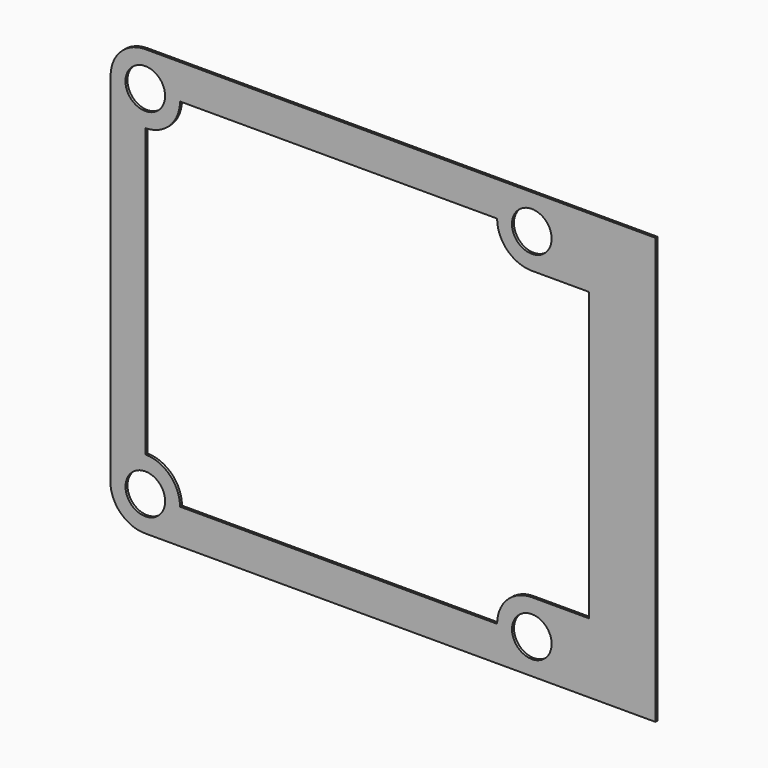
from build123d import *

# Parameters (mm, degrees)
F0_R     = 4
F1_DEPTH = 0.5


with BuildPart() as f1:
    # F0 (on Front) → F1 (new body)
    with BuildSketch(Plane.XZ):
        with BuildLine():
            Line((63.948692, -43.035596), (63.99582, 42.964404))
            Line((63.99582, 42.964404), (-39.00418, 43))
            ThreePointArc((-39.00418, 43), (-43.953927, 40.949747), (-46.00418, 36))
            Line((-46.00418, 36), (-46.051621, -35.722896))
            ThreePointArc((-46.051621, -35.722896), (-44.049395, -40.946936), (-38.859308, -43.035599))
            Line((-38.859308, -43.035599), (63.948692, -43.035596))
        make_face()
        with Locations((-38.99618, -36.000002)):
            Circle(F0_R, mode=Mode.SUBTRACT)
        with Locations((39.00418, -36)):
            Circle(F0_R, mode=Mode.SUBTRACT)
        with BuildLine():
            ThreePointArc((-39.00418, 29), (-34.05173, 31.048774), (-32, 36))
            Line((-32, 36), (32, 36))
            ThreePointArc((32, 36), (34.050253, 31.050253), (39, 29))
            Line((39, 29), (50.576452, 29))
            Line((50.576452, 29), (50.576452, -29))
            Line((50.576452, -29), (39, -29))
            ThreePointArc((39, -29), (34.050253, -31.050253), (32, -36))
            Line((32, -36), (-32, -36))
            ThreePointArc((-32, -36), (-34.050253, -31.050253), (-39, -29))
            Line((-39, -29), (-39.00418, 29))
        make_face(mode=Mode.SUBTRACT)
        with Locations((-39.00418, 36)):
            Circle(F0_R, mode=Mode.SUBTRACT)
        with Locations((38.99618, 36.000002)):
            Circle(F0_R, mode=Mode.SUBTRACT)
    extrude(amount=F1_DEPTH)


solid = f1.part
